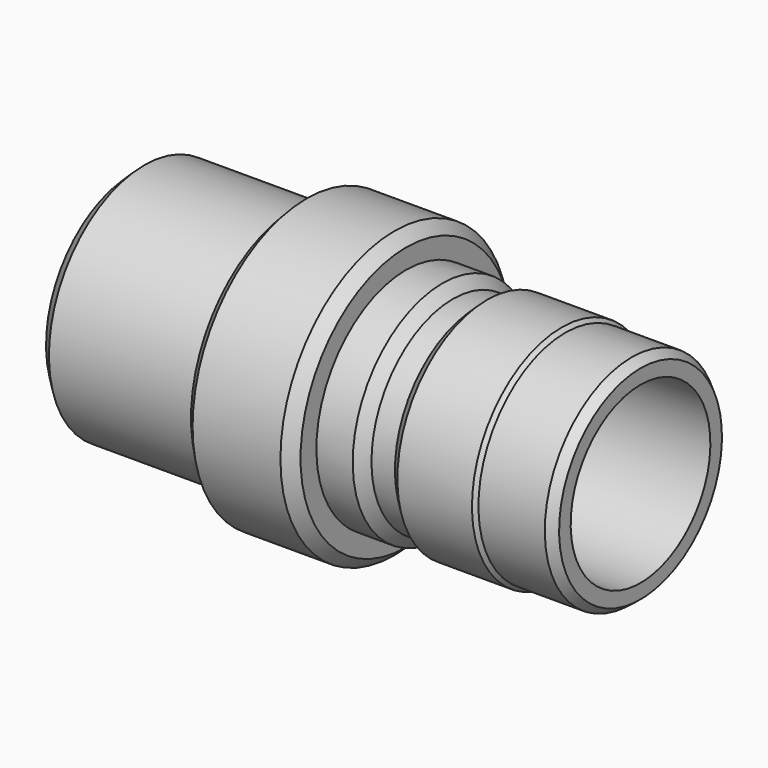
from build123d import *


with BuildPart() as f1:
    # F0 (on Front) → F1 (revolve)
    with BuildSketch(Plane.XZ):
        Polygon((29.793791, 12.5), (72.880834, 12.5), (72.880834, 14.574372), (71.625367, 15.559185), (62.121857, 15.559185), (61.603166, 16.066805), (50.923783, 16.066805), (49.379699, 14.574372), (46.021726, 14.574372), (44.529296, 16.066805), (39.327718, 16.066805), (39.327718, 18.899199), (37.677068, 20.436531), (25.098894, 20.436531), (23.64089, 18.899199), (23.64089, 17.08235), (1.850536, 17.08235), (0, 15.289375), (0, 13.728171), (28.453074, 13.728171), align=None)
    revolve(axis=Axis((36.5, 0, 0), (1, 0, 0)))


solid = f1.part
